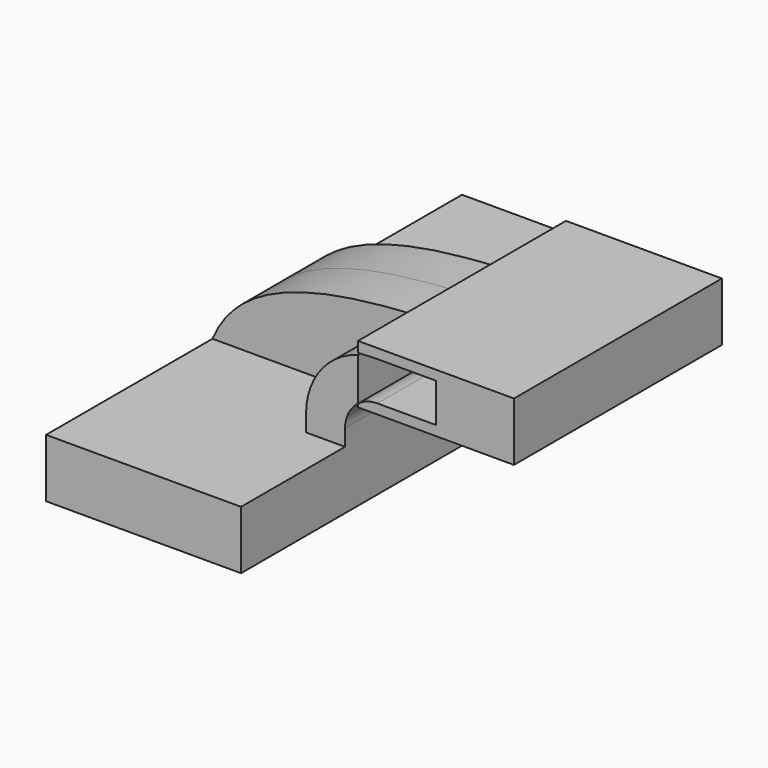
from build123d import *

# Parameters (mm, degrees)
F1_DEPTH = 5
F2_DEPTH = 2.5
F3_DEPTH = 1


with BuildPart() as f1:
    # F0 (on Front) → F1 (new body, symmetric)
    with BuildSketch(Plane.XZ):
        Polygon((-1.875, 0.5625), (-1.875, -0.5625), (1.875, -0.5625), (1.875, 0.5625), (1.125, 0.5625), align=None)
    extrude(amount=F1_DEPTH, both=True)

    # F0 (on Front) → F2 (join, symmetric)
    with BuildSketch(Plane.XZ):
        with BuildLine():
            Line((2.125, 2.4375), (2.125, 2.236595))
            add(Edge.make_bspline(
                [(2.125, 2.236595), (2.220664, 2.241061), (2.318275, 2.244875), (2.417864, 2.248045)],
                knots=[4.461362, 4.461362, 4.461362, 4.461362, 4.640393, 4.640393, 4.640393, 4.640393], degree=3))
            ThreePointArc((2.417864, 2.248045), (2.458913, 2.249886), (2.5, 2.2505))
            Line((2.5, 2.2505), (3.625, 2.2505))
            Line((3.625, 2.2505), (3.625, 1.5005))
            Line((3.625, 1.5005), (2.5, 1.5005))
            ThreePointArc((2.5, 1.5005), (2.302358, 1.468427), (2.125, 1.3755))
            Line((2.125, 1.3755), (2.125, 1.3125))
            Line((2.125, 1.3125), (5.125, 1.3125))
            Line((5.125, 1.3125), (5.125, 2.4375))
            Line((5.125, 2.4375), (2.125, 2.4375))
        make_face()
        with BuildLine():
            Line((1.125, 0.5625), (1.875, 0.5625))
            Line((1.875, 0.5625), (1.875, 0.8755))
            ThreePointArc((1.875, 0.8755), (1.940983, 1.155008), (2.125, 1.3755))
            Line((2.125, 1.3755), (2.125, 2.198376))
            ThreePointArc((2.125, 2.198376), (1.403129, 1.704656), (1.125, 0.8755))
            Line((1.125, 0.8755), (1.125, 0.5625))
        make_face()
    extrude(amount=F2_DEPTH, both=True)

    # F0 (on Front) → F3 (join, symmetric)
    with BuildSketch(Plane.XZ):
        with BuildLine():
            add(Edge.make_bspline(
                [(-1.875, 0.5625), (-1.433764, 1.608831), (-0.258898, 2.125299), (2.125, 2.236595)],
                knots=[0, 0, 0, 0, 4.461362, 4.461362, 4.461362, 4.461362], degree=3))
            Line((-1.875, 0.5625), (1.125, 0.5625))
            Line((1.125, 0.5625), (1.125, 0.8755))
            ThreePointArc((1.125, 0.8755), (1.403129, 1.704656), (2.125, 2.198376))
            Line((2.125, 2.198376), (2.125, 2.236595))
        make_face()
    extrude(amount=F3_DEPTH, both=True)


solid = f1.part
